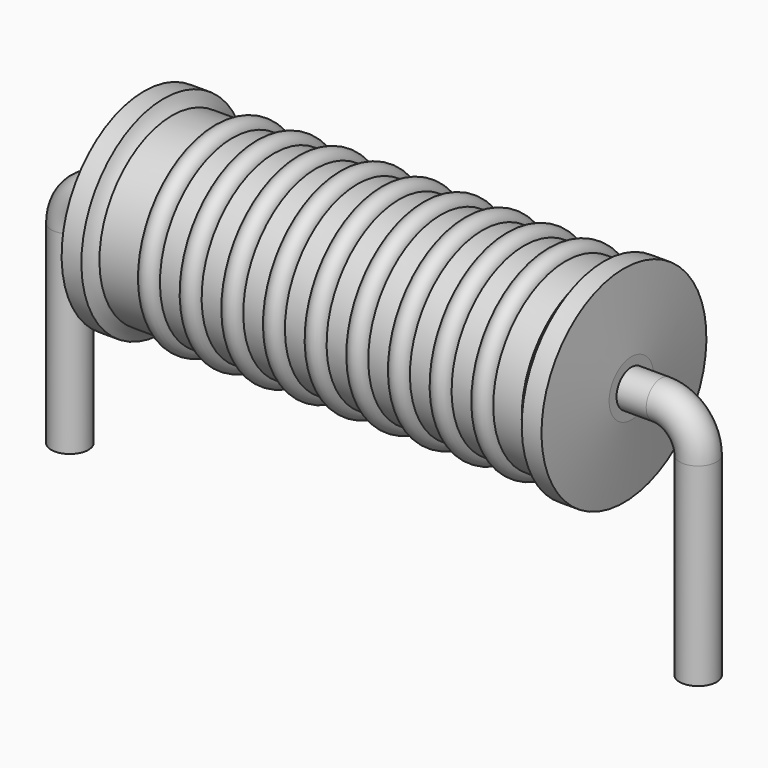
from build123d import *

# Parameters (mm, degrees)
SKETCH_R = 0.45


with BuildPart() as sweep_body:
    # Sweep: sweep along a path in Sketch001
    with BuildLine(Plane.XZ) as sweep_path:
        Line((0, -3), (0, 1.7))
        ThreePointArc((0, 1.7), (0.263601, 2.336393), (0.899993, 2.6))
        Line((0.899993, 2.6), (14.34, 2.6))
        ThreePointArc((14.34, 2.6), (14.976396, 2.336396), (15.24, 1.7))
        Line((15.24, 1.7), (15.24, -3))
    # Sketch → Sweep (sweep)
    with BuildSketch(Plane.XY.offset(-2)):
        Circle(SKETCH_R)
    sweep(path=sweep_path.line)


with BuildPart() as revolution:
    # Sketch002 → Revolution (revolve)
    with BuildSketch(Plane.XZ):
        with BuildLine():
            Line((1.8, 5.1), (2.28, 5.1))
            ThreePointArc((2.28, 5.1), (2.363087, 4.939497), (2.478, 4.8))
            Line((2.478, 4.8), (12.72, 4.8))
            ThreePointArc((12.72, 4.8), (12.855459, 4.937633), (12.96, 5.1))
            Line((12.96, 5.1), (13.44, 5.1))
            ThreePointArc((13.62, 3.275), (13.531926, 4.18769), (13.44, 5.1))
            Line((13.62, 2.6), (13.62, 3.275))
            Line((1.62, 2.6), (13.62, 2.6))
            Line((1.62, 2.6), (1.62, 3.275))
            ThreePointArc((1.8, 5.1), (1.708074, 4.18769), (1.62, 3.275))
        make_face()
    revolve(axis=Axis((1.62, 0, 2.6), (1, 0, 0)))


with BuildPart() as obj1:
    # Sketch003 → Revolution001 (revolve)
    with BuildSketch(Plane.XZ):
        with BuildLine():
            ThreePointArc((3.950526, 4.752), (3.697895, 5.004632), (3.445263, 4.752))
            Line((2.94, 4.752), (3.445263, 4.752))
            Line((2.94, 4.752), (2.94, 4.252))
            Line((2.94, 4.252), (12.54, 4.252))
            Line((12.54, 4.252), (12.54, 4.752))
            Line((12.034737, 4.752), (12.54, 4.752))
            ThreePointArc((12.034737, 4.752), (11.782105, 5.004632), (11.529474, 4.752))
            Line((11.024211, 4.752), (11.529474, 4.752))
            ThreePointArc((11.024211, 4.752), (10.771579, 5.004632), (10.518947, 4.752))
            Line((10.013684, 4.752), (10.518947, 4.752))
            ThreePointArc((10.013684, 4.752), (9.761053, 5.004632), (9.508421, 4.752))
            Line((9.003158, 4.752), (9.508421, 4.752))
            ThreePointArc((9.003158, 4.752), (8.750526, 5.004632), (8.497895, 4.752))
            Line((7.992632, 4.752), (8.497895, 4.752))
            ThreePointArc((7.992632, 4.752), (7.74, 5.004632), (7.487368, 4.752))
            Line((6.982105, 4.752), (7.487368, 4.752))
            ThreePointArc((6.982105, 4.752), (6.729474, 5.004632), (6.476842, 4.752))
            Line((5.971579, 4.752), (6.476842, 4.752))
            ThreePointArc((5.971579, 4.752), (5.718947, 5.004632), (5.466316, 4.752))
            Line((4.961053, 4.752), (5.466316, 4.752))
            ThreePointArc((4.961053, 4.752), (4.708421, 5.004632), (4.455789, 4.752))
            Line((3.950526, 4.752), (4.455789, 4.752))
        make_face()
    revolve(axis=Axis((1.92, 0, 2.6), (1, 0, 0)))

    # obj1: union Sweep body, Revolution
    add(sweep_body.part)
    add(revolution.part)


solid = obj1.part
